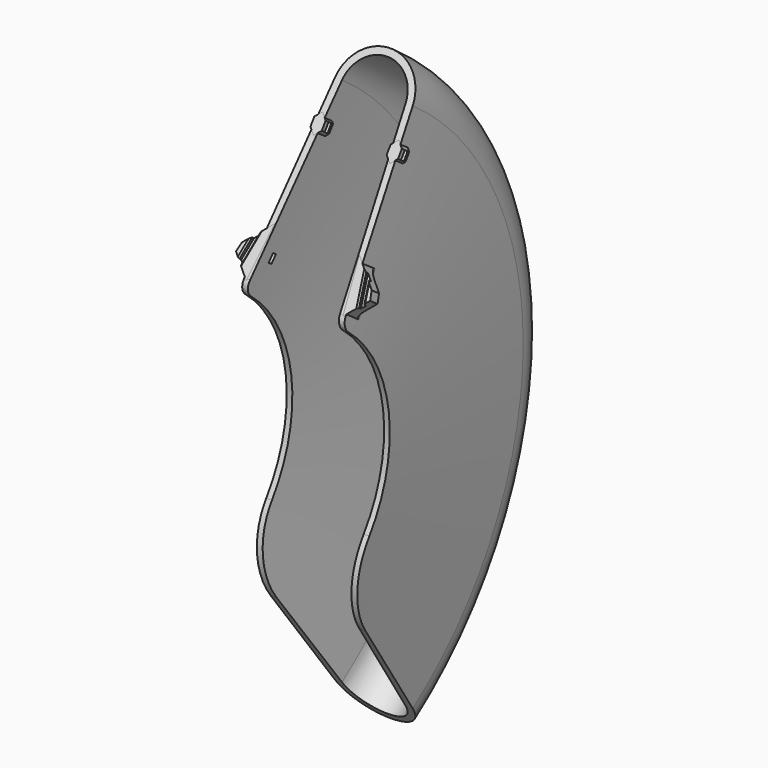
from build123d import *

# Parameters (mm, degrees)
REVOLUTION_ANGLE     = 110
FILLET_R             = 8
FILLET001_R          = 52
PAD001_DEPTH         = 8
POCKET_DEPTH         = 3
CHAMFER_SIZE         = 1
FILLET002_R          = 6
POCKET001_DEPTH      = 150
POCKET001_DEPTH_BACK = 100


with BuildPart() as part:
    # Sketch → Revolution (revolve, symmetric)
    with BuildSketch(Plane.XY) as revolution_sk:
        with BuildLine():
            ThreePointArc((27.507267, 229.338864), (0, 255), (-27.507267, 229.338864))
            Line((-36.5, 100), (-27.507267, 229.338864))
            Line((-36.5, 100), (-32.5, 100))
            Line((-32.5, 100), (-22.5, 229.239629))
            ThreePointArc((22.5, 229.239629), (0, 250.06593), (-22.5, 229.239629))
            Line((22.5, 229.239629), (32.5, 100))
            Line((32.5, 100), (36.5, 100))
            Line((36.5, 100), (27.507267, 229.338864))
        make_face()
    revolve(axis=Axis((0, 0, 0), (1, 0, 0)), revolution_arc=REVOLUTION_ANGLE / 2)
    revolve(revolution_sk.sketch, axis=Axis((0, 0, 0), (-1, 0, 0)), revolution_arc=REVOLUTION_ANGLE / 2)

    # Fillet
    fillet_edges = [part.edges().sort_by_distance(p)[0] for p in [
        (34.5, 57.357644, 81.915204),
        (-34.5, 57.357644, 81.915204),
    ]]
    fillet(fillet_edges, radius=FILLET_R)

    # Fillet001
    fillet001_edges = [part.edges().sort_by_distance(p)[0] for p in [
        (34.5, 57.357644, -81.915204),
        (-34.5, 57.357644, -81.915204),
    ]]
    fillet(fillet001_edges, radius=FILLET001_R)

    # Sketch002 (on Face6 of Fillet001) → Pad001 (new body)
    with BuildSketch(Plane(origin=(0, 0, 0), x_dir=(1, 0, 0), z_dir=(0, -0.819152, 0.573576))):
        Polygon((-45.947086, 125.795555), (-47.5, 120), (-34.248819, 106.748819), (-30, 141.742641), align=None)
        Polygon((45.947086, 125.795555), (47.5, 120), (34.248819, 106.748819), (30, 141.742641), align=None)
        Polygon((27, 195), (31, 199), (31, 205), (27, 209), (23, 205), (23, 199), align=None)
        Polygon((-27, 195), (-23, 199), (-23, 205), (-27, 209), (-31, 205), (-31, 199), align=None)
    extrude(amount=-PAD001_DEPTH)

    # Sketch003 (on Face33 of Pad001) → Pocket (cut)
    with BuildSketch(Plane(origin=(0, 0, 0), x_dir=(1, 0, 0), z_dir=(0, -0.819152, 0.573576))):
        Polygon((35, 146.869795), (45, 97.88), (47.939388, 98.48), (37.939388, 147.469795), align=None)
        Polygon((-47.939388, 98.48), (-45, 97.88), (-35, 146.869795), (-37.939388, 147.469795), align=None)
    extrude(amount=-POCKET_DEPTH, mode=Mode.SUBTRACT)

    # Chamfer
    chamfer_edges = [part.edges().sort_by_distance(p)[0] for p in [
        (42.83068, 70.840965, 101.171383),
        (39.635693, 71.215037, 101.705613),
        (-39.635693, 71.215037, 101.705613),
        (-42.83068, 70.840965, 101.171383),
    ]]
    chamfer(chamfer_edges, length=CHAMFER_SIZE)

    # Fillet002
    fillet002_edges = [part.edges().sort_by_distance(p)[0] for p in [
        (34.872742, 77.186065, 96.285551),
        (-34.872742, 77.186065, 96.285551),
    ]]
    fillet(fillet002_edges, radius=FILLET002_R)

    # Sketch004 (on Face71 of Fillet002) → Pocket001 (cut, two sides)
    with BuildSketch(Plane(origin=(-31, 0, 0), x_dir=(0, -1, 0), z_dir=(-1, 0, 0))) as pocket001_sk:
        Polygon((-122.626595, 164.309998), (-119.227741, 159.365527), (-116.755506, 161.064954), (-120.15436, 166.009425), align=None)
        Polygon((-76.975509, 93.186472), (-79.459905, 91.504872), (-82.823105, 96.473663), (-80.338709, 98.155263), align=None)
    extrude(amount=-POCKET001_DEPTH, mode=Mode.SUBTRACT)
    extrude(pocket001_sk.sketch, amount=POCKET001_DEPTH_BACK, mode=Mode.SUBTRACT)


solid = part.part
